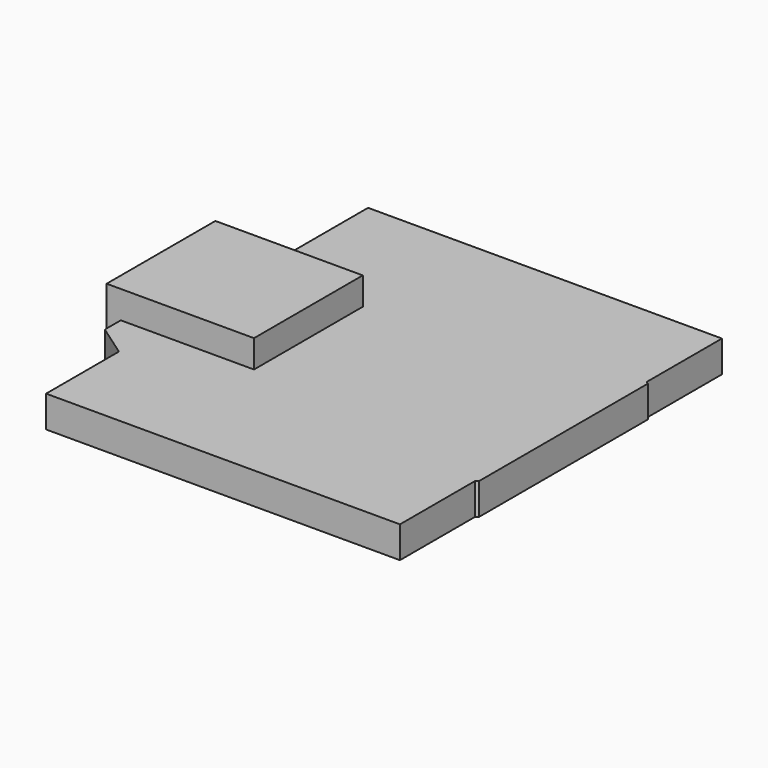
from build123d import *

# Parameters (mm, degrees)
F1_W     = 6.7530912347
F1_H     = 6.890188437
F2_DEPTH = 1.6
F1_W_2   = 0.7175340841
F3_DEPTH = 3


with BuildPart() as f2:
    # F1 (on Top) → F2 (new body)
    with BuildSketch(Plane.XY):
        Polygon((10.072492063, 5.4323319346), (10.072492063, 10.2), (-7.8649020275, 10.2), (-7.8649020275, 5.5868364871), (-9.4824659159, 4.4542060588), (-9.4824659159, 3.4450942185), (-2.7293746812, 3.4450942185), (-2.7293746812, -3.4450942185), (-9.4824659159, -3.4450942185), (-9.4824659159, -4.4542060588), (-7.8649020275, -5.5868364871), (-7.8649020275, -10.2), (10.072492063, -10.2), (10.072492063, -5.4323319346), (10.2, -5.3430499159), (10.2, 5.3430499159), align=None)
        with Locations((-6.1059202986, 0)):
            Rectangle(F1_W, F1_H)
    extrude(amount=F2_DEPTH)

    # F1 (on Top) → F3 (join)
    with BuildSketch(Plane.XY):
        with Locations((-9.841232958, 0)):
            Rectangle(F1_W_2, F1_H)
        with Locations((-6.1059202986, 0)):
            Rectangle(F1_W, F1_H)
    extrude(amount=F3_DEPTH)


solid = f2.part
